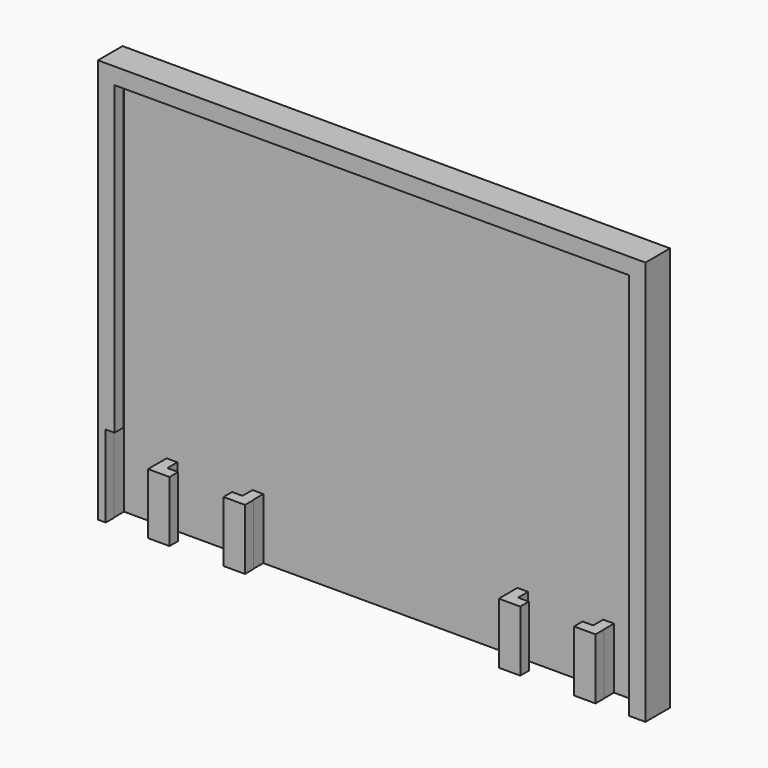
from build123d import *

# Parameters (mm, degrees)
F1_DEPTH  = 8.6
F2_T      = -2.1
F3_DEPTH  = 25
F4_W      = 2.5
F4_H      = 108.4
F5_DEPTH  = 3
F5_TAPER  = -2
F6_W      = 3
F6_H      = 17
F7_DEPTH  = 3.5
F8_W      = 6
F8_H      = 17
F9_DEPTH  = 3
F10_W     = 2.4673982024
F10_H     = 22.8933023606
F11_DEPTH = 4


with BuildPart() as f1:
    # F0 (on Front) → F1 (new body)
    with BuildSketch(Plane.XZ):
        Polygon((0, 42.6528545822), (-85.1061937809, 42.6528545822), (-85.1061937809, -70.3471454178), (-68.1061937809, -70.3471454178), (-65.1061937809, -70.3471454178), (-44.1061937809, -70.3471454178), (-41.1061937809, -70.3471454178), (0, -70.3471454178), align=None)
        Polygon((67.8938062191, 42.6528545822), (0, 42.6528545822), (0, -70.3471454178), (23.8938062191, -70.3471454178), (26.8938062191, -70.3471454178), (47.8938062191, -70.3471454178), (50.8938062191, -70.3471454178), (67.8938062191, -70.3471454178), align=None)
    extrude(amount=-F1_DEPTH)

    # F2
    f2_openings = [f1.faces().sort_by_distance(p)[0] for p in [
        (-8.606194, 0, -13.847145),
    ]]
    offset(amount=F2_T, openings=f2_openings)

    # F3 (cut): a face of the model
    f3_faces = [f1.faces().sort_by_distance(p)[0] for p in [
        (-8.6061937809, 3.25, -68.2471454178),
    ]]
    extrude(f3_faces, amount=-F3_DEPTH, mode=Mode.SUBTRACT)

    # F4 (on face) → F5 (join)
    with BuildSketch(Plane.XZ):
        Polygon((-80.5061937809, 40.5528545822), (-80.5061937809, 38.0528545822), (63.2938062191, 38.0528545822), (65.7938062191, 38.0528545822), (65.7938062191, 40.5528545822), align=None)
        Polygon((-83.0061937809, 40.5528545822), (-83.0061937809, -70.3471454178), (-80.5061937809, -70.3471454178), (-80.5061937809, 38.0528545822), (-80.5061937809, 40.5528545822), align=None)
        with Locations((64.5438062191, -16.1471454178)):
            Rectangle(F4_W, F4_H)
    extrude(amount=-F5_DEPTH, taper=F5_TAPER)

    # F6 (on face) → F7 (join)
    with BuildSketch(Plane.XZ.offset(-6.5)):
        with Locations((-69.6061937809, -61.8471454178)):
            Rectangle(F6_W, F6_H)
        with Locations((-45.6061937809, -61.8471454178)):
            Rectangle(F6_W, F6_H)
        with Locations((28.3938062191, -61.8471454178)):
            Rectangle(F6_W, F6_H)
        with Locations((52.3938062191, -61.8471454178)):
            Rectangle(F6_W, F6_H)
    extrude(amount=F7_DEPTH)

    # F8 (on face) → F9 (join)
    with BuildSketch(Plane.XZ.offset(-3)):
        with Locations((-68.1061937809, -61.8471454178)):
            Rectangle(F8_W, F8_H)
        with Locations((-47.0006712973, -61.8471454178)):
            Rectangle(F8_W, F8_H)
        with Locations((29.9112996757, -61.8471454178)):
            Rectangle(F8_W, F8_H)
        with Locations((50.9397262037, -61.8471454178)):
            Rectangle(F8_W, F8_H)
    extrude(amount=F9_DEPTH)

    # F10 (on face) → F11 (cut)
    with BuildSketch(Plane.XZ):
        with Locations((-81.7398928821, -58.9004942375)):
            Rectangle(F10_W, F10_H)
        Polygon((-82.9735919833, -73.1144845486), (-78.0577212572, -73.1144845486), (-78.0577212572, -47.4538430572), (-80.5061937809, -47.4538430572), (-80.5061937809, -70.3471454178), (-82.9735919833, -70.3471454178), align=None)
    extrude(amount=-F11_DEPTH, mode=Mode.SUBTRACT)


solid = f1.part
